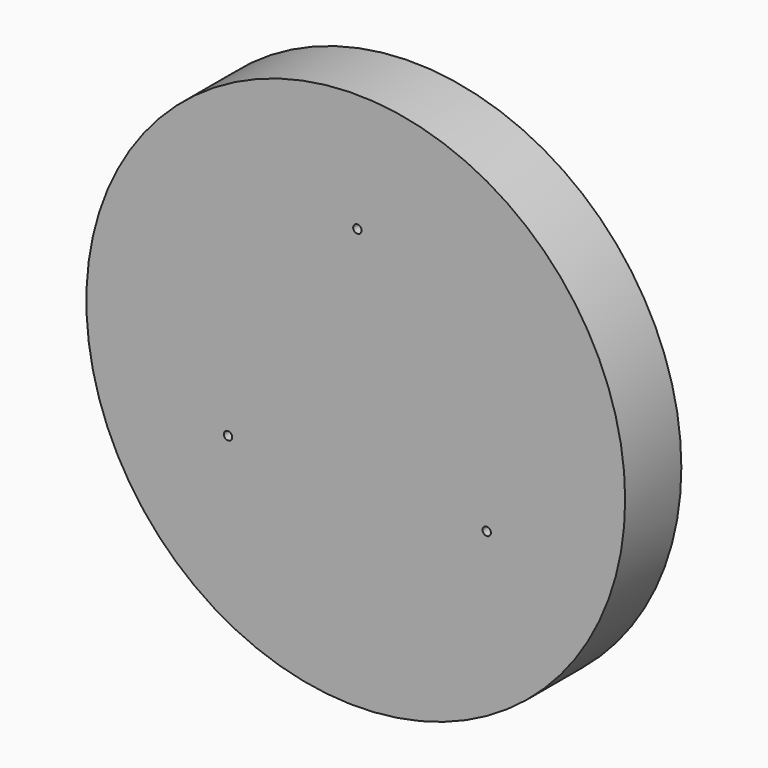
from build123d import *

# Parameters (mm, degrees)
F0_R     = 203.2
F0_R_2   = 3.15
F1_DEPTH = 53


with BuildPart() as f1:
    # F0 (on Front) → F1 (new body)
    with BuildSketch(Plane.XZ):
        Circle(F0_R)
        with Locations((-96.364777, -54.97234)):
            Circle(F0_R_2, mode=Mode.SUBTRACT)
        with Locations((98.790584, -54.97234)):
            Circle(F0_R_2, mode=Mode.SUBTRACT)
        with Locations((1.212903, 114.03716)):
            Circle(F0_R_2, mode=Mode.SUBTRACT)
    extrude(amount=F1_DEPTH)


solid = f1.part
